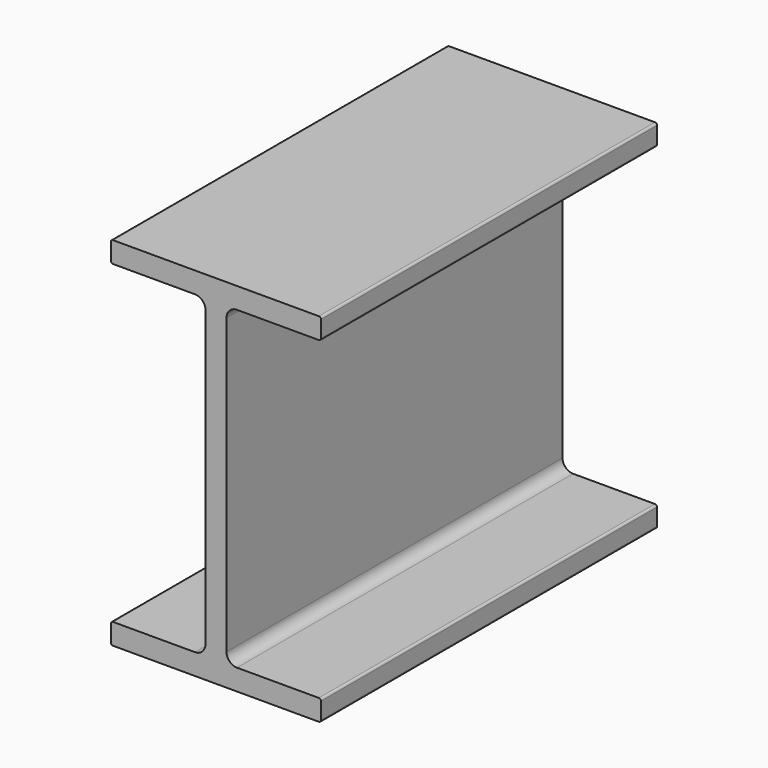
from build123d import *

# Parameters (mm, degrees)
F1_DEPTH = 50.8


with BuildPart() as f1:
    # F0 (on Front) → F1 (new body)
    with BuildSketch(Plane.XZ):
        with BuildLine():
            ThreePointArc((-12.7, 19.304), (-12.625605, 19.124395), (-12.446, 19.05))
            Line((-12.446, 19.05), (-2.54, 19.05))
            ThreePointArc((-2.54, 19.05), (-1.641974, 18.678026), (-1.27, 17.78))
            Line((-1.27, 17.78), (-1.27, -17.78))
            ThreePointArc((-1.27, -17.78), (-1.641974, -18.678026), (-2.54, -19.05))
            Line((-2.54, -19.05), (-12.446, -19.05))
            ThreePointArc((-12.446, -19.05), (-12.625605, -19.124395), (-12.7, -19.304))
            Line((-12.7, -19.304), (-12.7, -21.336))
            ThreePointArc((-12.7, -21.336), (-12.625605, -21.515605), (-12.446, -21.59))
            Line((-12.446, -21.59), (12.446, -21.59))
            ThreePointArc((12.446, -21.59), (12.625605, -21.515605), (12.7, -21.336))
            Line((12.7, -21.336), (12.7, -19.304))
            ThreePointArc((12.7, -19.304), (12.625605, -19.124395), (12.446, -19.05))
            Line((12.446, -19.05), (2.54, -19.05))
            ThreePointArc((2.54, -19.05), (1.641974, -18.678026), (1.27, -17.78))
            Line((1.27, -17.78), (1.27, 17.78))
            ThreePointArc((1.27, 17.78), (1.641974, 18.678026), (2.54, 19.05))
            Line((2.54, 19.05), (12.446, 19.05))
            ThreePointArc((12.446, 19.05), (12.625605, 19.124395), (12.7, 19.304))
            Line((12.7, 19.304), (12.7, 21.336))
            ThreePointArc((12.7, 21.336), (12.625605, 21.515605), (12.446, 21.59))
            Line((12.446, 21.59), (-12.446, 21.59))
            ThreePointArc((-12.446, 21.59), (-12.625605, 21.515605), (-12.7, 21.336))
            Line((-12.7, 21.336), (-12.7, 19.304))
        make_face()
    extrude(amount=F1_DEPTH)


solid = f1.part
